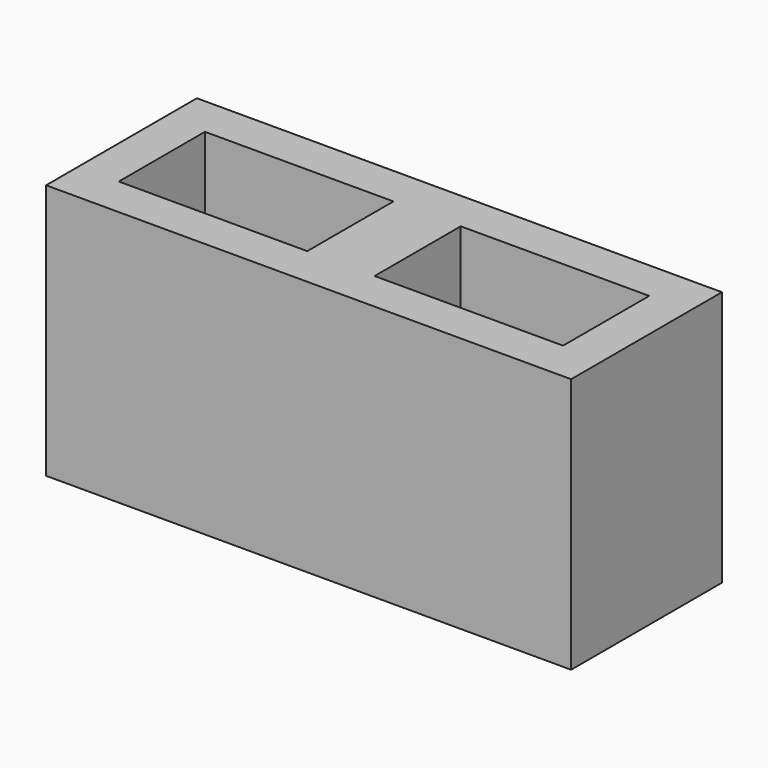
from build123d import *

# Parameters (mm, degrees)
BOX020_W     = 140
BOX020_H     = 80
BOX020_DEPTH = 190
BOX021_W     = 140
BOX021_H     = 80
BOX021_DEPTH = 190
BOX022_W     = 390
BOX022_H     = 140
BOX022_DEPTH = 190


with BuildPart() as cube010:
    # Box020 → Box020 (new body)
    with BuildSketch(Plane(origin=(220, 30, 0), x_dir=(1, 0, 0), z_dir=(0, 0, 1))):
        with Locations((70, 40)):
            Rectangle(BOX020_W, BOX020_H)
    extrude(amount=BOX020_DEPTH)


with BuildPart() as fusion006:
    # Box021 → Box021 (new body)
    with BuildSketch(Plane(origin=(30, 30, 0), x_dir=(1, 0, 0), z_dir=(0, 0, 1))):
        with Locations((70, 40)):
            Rectangle(BOX021_W, BOX021_H)
    extrude(amount=BOX021_DEPTH)

    # Fusion006: union Cube010
    add(cube010.part)


with BuildPart() as cut003:
    # Box022 → Box022 (new body)
    with BuildSketch(Plane.XY):
        with Locations((195, 70)):
            Rectangle(BOX022_W, BOX022_H)
    extrude(amount=BOX022_DEPTH)

    # Cut003: cut Fusion006
    add(fusion006.part, mode=Mode.SUBTRACT)


with BuildPart() as cut003_1:
    # Cut003 placement: moved
    add(cut003.part.moved(Location((230, 445, -790))))


solid = cut003_1.part
